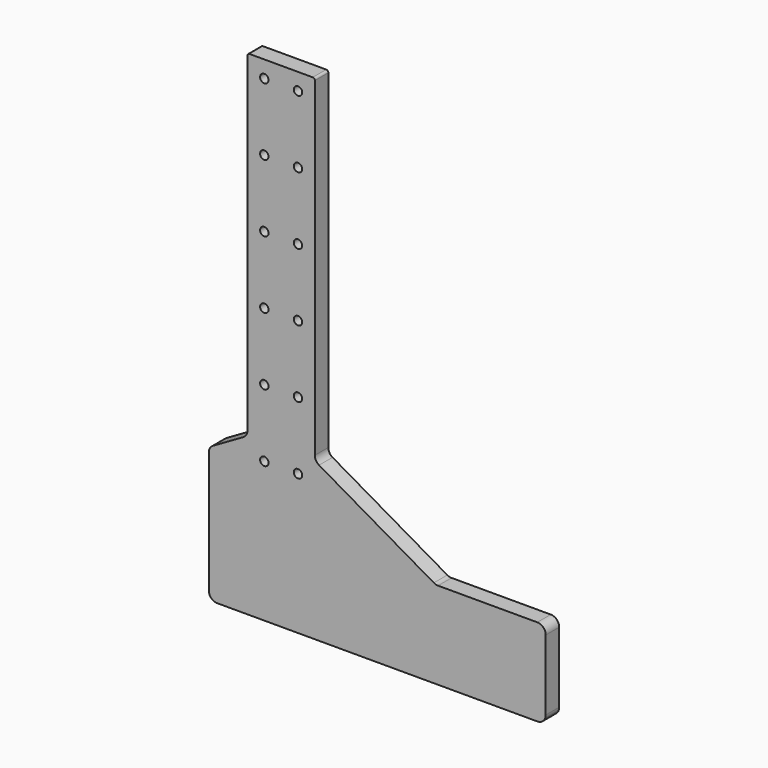
from build123d import *

# Parameters (mm, degrees)
F0_R     = 3.175
F1_DEPTH = 6.35


with BuildPart() as f1:
    # F0 (on Front) → F1 (new body, symmetric)
    with BuildSketch(Plane.XZ):
        with BuildLine():
            Line((23.8125, 0), (-23.8125, 0))
            ThreePointArc((-23.8125, 0), (-24.935032, -0.464968), (-25.4, -1.5875))
            Line((-25.4, -1.5875), (-25.4, -250.333826))
            ThreePointArc((-25.4, -250.333826), (-26.250739, -253.508826), (-28.575, -255.833087))
            Line((-28.575, -255.833087), (-51.373449, -268.995778))
            ThreePointArc((-51.373449, -268.995778), (-53.697711, -271.320039), (-54.548449, -274.495039))
            Line((-54.548449, -274.495039), (-54.548449, -366.078865))
            ThreePointArc((-54.548449, -366.078865), (-52.688577, -370.568993), (-48.198449, -372.428865))
            Line((-48.198449, -372.428865), (193.101551, -372.428865))
            ThreePointArc((193.101551, -372.428865), (197.591679, -370.568993), (199.451551, -366.078865))
            Line((199.451551, -366.078865), (199.451551, -312.994769))
            ThreePointArc((199.451551, -312.994769), (197.591679, -308.504641), (193.101551, -306.644769))
            Line((193.101551, -306.644769), (118.284892, -306.644769))
            ThreePointArc((118.284892, -306.644769), (116.641391, -306.428398), (115.109892, -305.79403))
            Line((115.109892, -305.79403), (28.575, -255.833087))
            ThreePointArc((28.575, -255.833087), (26.250739, -253.508826), (25.4, -250.333826))
            Line((25.4, -250.333826), (25.4, -1.5875))
            ThreePointArc((25.4, -1.5875), (24.935032, -0.464968), (23.8125, 0))
        make_face()
        with Locations((-12.7, -266.7)):
            Circle(F0_R, mode=Mode.SUBTRACT)
        with Locations((-12.7, -215.9)):
            Circle(F0_R, mode=Mode.SUBTRACT)
        with Locations((12.7, -266.7)):
            Circle(F0_R, mode=Mode.SUBTRACT)
        with Locations((12.7, -215.9)):
            Circle(F0_R, mode=Mode.SUBTRACT)
        with Locations((-12.7, -165.1)):
            Circle(F0_R, mode=Mode.SUBTRACT)
        with Locations((-12.7, -114.3)):
            Circle(F0_R, mode=Mode.SUBTRACT)
        with Locations((12.7, -165.1)):
            Circle(F0_R, mode=Mode.SUBTRACT)
        with Locations((12.7, -114.3)):
            Circle(F0_R, mode=Mode.SUBTRACT)
        with Locations((-12.7, -63.5)):
            Circle(F0_R, mode=Mode.SUBTRACT)
        with Locations((-12.7, -12.7)):
            Circle(F0_R, mode=Mode.SUBTRACT)
        with Locations((12.7, -63.5)):
            Circle(F0_R, mode=Mode.SUBTRACT)
        with Locations((12.7, -12.7)):
            Circle(F0_R, mode=Mode.SUBTRACT)
    extrude(amount=F1_DEPTH, both=True)


solid = f1.part
